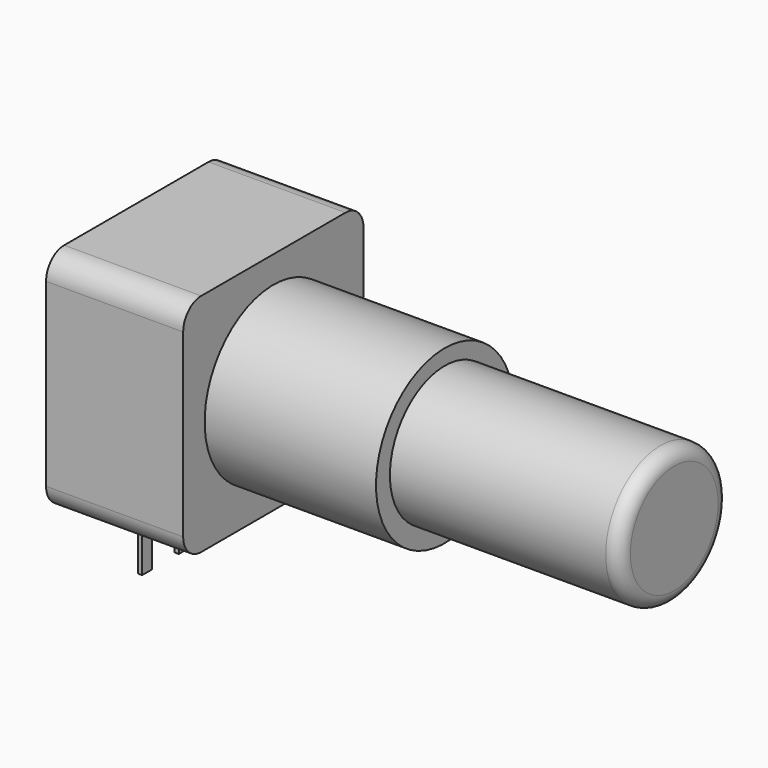
from build123d import *

# Parameters (mm, degrees)
SKETCH001_R       = 4.7625
PAD001_DEPTH      = 9.5
SKETCH003_W       = 0.233334
SKETCH003_H       = 0.7
PAD002_DEPTH      = 1
PAD002_DEPTH_BACK = 3
SKETCH004_R       = 3.8
PAD003_DEPTH      = 12.72
FILLET_R          = 0.76
SKETCH_W          = 12.5
SKETCH_H          = 12.5
PAD_DEPTH         = 7.6
FILLET001_R       = 1.25


with BuildPart() as pad001:
    # Sketch001 → Pad001 (new body)
    with BuildSketch(Plane.YZ.offset(14.58)):
        with Locations((2.54, 6.85)):
            Circle(SKETCH001_R)
    extrude(amount=-PAD001_DEPTH)


with BuildPart() as pad002:
    # Sketch003 → Pad002 (new body, two sides)
    with BuildSketch(Plane(origin=(0, 0, 0), x_dir=(-1, 0, 0), z_dir=(0, 0, 1))) as pad002_sk:
        Rectangle(SKETCH003_W, SKETCH003_H)
        with Locations((0, -2.54)):
            Rectangle(SKETCH003_W, SKETCH003_H)
        with Locations((0, -5.08)):
            Rectangle(SKETCH003_W, SKETCH003_H)
    extrude(amount=PAD002_DEPTH)
    extrude(pad002_sk.sketch, amount=-PAD002_DEPTH_BACK)


with BuildPart() as fillet_body:
    # Sketch004 → Pad003 (new body)
    with BuildSketch(Plane.YZ.offset(14.58)):
        with Locations((2.54, 6.95)):
            Circle(SKETCH004_R)
    extrude(amount=PAD003_DEPTH)

    # Fillet
    fillet_edges = [fillet_body.edges().sort_by_distance(p)[0] for p in [
        (27.3, -1.26, 6.95),
    ]]
    fillet(fillet_edges, radius=FILLET_R)


with BuildPart() as fillet001:
    # Sketch → Pad (new body)
    with BuildSketch(Plane.YZ.offset(-2.52)):
        with Locations((2.54, 6.85)):
            Rectangle(SKETCH_W, SKETCH_H)
    extrude(amount=PAD_DEPTH)

    # Fillet001
    fillet001_edges = [fillet001.edges().sort_by_distance(p)[0] for p in [
        (1.28, -3.71, 13.1),
        (1.28, 8.79, 13.1),
        (1.28, -3.71, 0.6),
        (1.28, 8.79, 0.6),
    ]]
    fillet(fillet001_edges, radius=FILLET001_R)


solid = Compound([pad001.part, pad002.part, fillet_body.part, fillet001.part])
